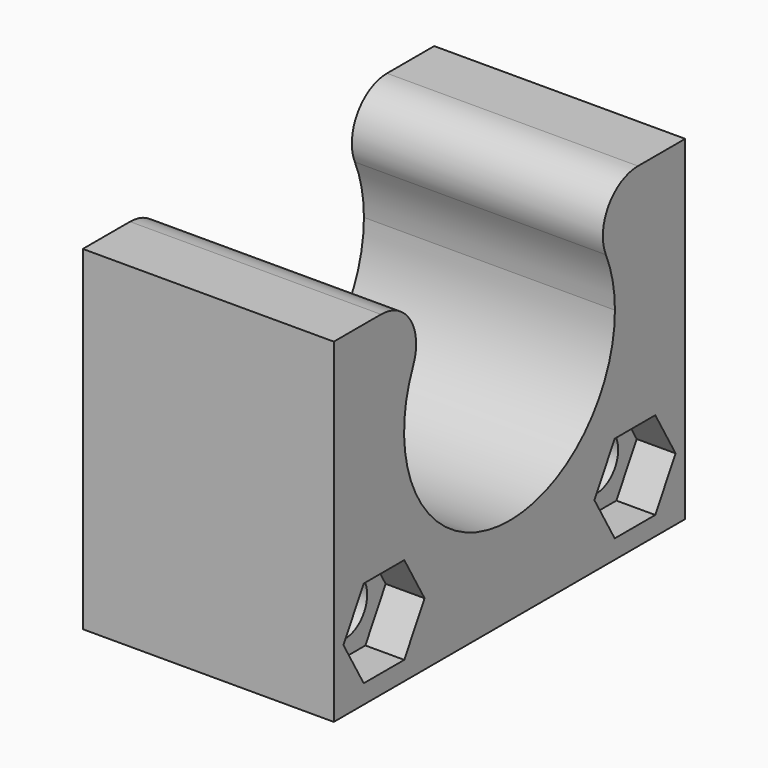
from build123d import *

# Parameters (mm, degrees)
F0_W     = 35
F0_H     = 35
F1_DEPTH = 20
F3_DEPTH = 51.098119
F4_R     = 3.5
F6_DEPTH = 3.1
F8_D     = 4.4


with BuildPart() as f1:
    # F0 (on Right) → F1 (new body)
    with BuildSketch(Plane.YZ):
        Rectangle(F0_W, F0_H)
    extrude(amount=F1_DEPTH)

    # F2 (on face) → F3 (cut)
    with BuildSketch(Plane.YZ.offset(20)):
        with BuildLine():
            ThreePointArc((-5.10385, 9.176094), (-5.322573, -9.050979), (10.5, 0))
            ThreePointArc((10.5, 0), (9.050979, 5.322573), (5.10385, 9.176094))
            ThreePointArc((5.10385, 9.176094), (0, 10.5), (-5.10385, 9.176094))
        make_face()
        with BuildLine():
            ThreePointArc((-5.10385, 9.176094), (0, 10.5), (5.10385, 9.176094))
            Line((5.10385, 9.176094), (17.5, 9.176094))
            Line((17.5, 9.176094), (17.5, 17.5))
            Line((17.5, 17.5), (-17.5, 17.5))
            Line((-17.5, 17.5), (-17.5, 9.176094))
            Line((-17.5, 9.176094), (-5.10385, 9.176094))
        make_face()
    extrude(amount=-F3_DEPTH, mode=Mode.SUBTRACT)

    # F4
    f4_edges = [f1.edges().sort_by_distance(p)[0] for p in [
        (10, 5.10385, 9.176094),
        (10, -5.10385, 9.176094),
    ]]
    fillet(f4_edges, radius=F4_R)

    # F5 (on face) → F6 (cut)
    with BuildSketch(Plane.YZ.offset(20)):
        Polygon((10.479274, -16), (14.520726, -16), (16.541452, -12.5), (14.520726, -9), (10.479274, -9), (8.458548, -12.5), align=None)
        Polygon((-8.458548, -12.5), (-10.479274, -9), (-14.520726, -9), (-16.541452, -12.5), (-14.520726, -16), (-10.479274, -16), align=None)
    extrude(amount=-F6_DEPTH, mode=Mode.SUBTRACT)

    # F8 (through all)
    with Locations(Plane(origin=(0, 0, 0), x_dir=(0, -1, 0), z_dir=(-1, 0, 0))):
        with Locations((-12.5, -12.5), (12.5, -12.5)):
            Hole(F8_D / 2)


solid = f1.part
